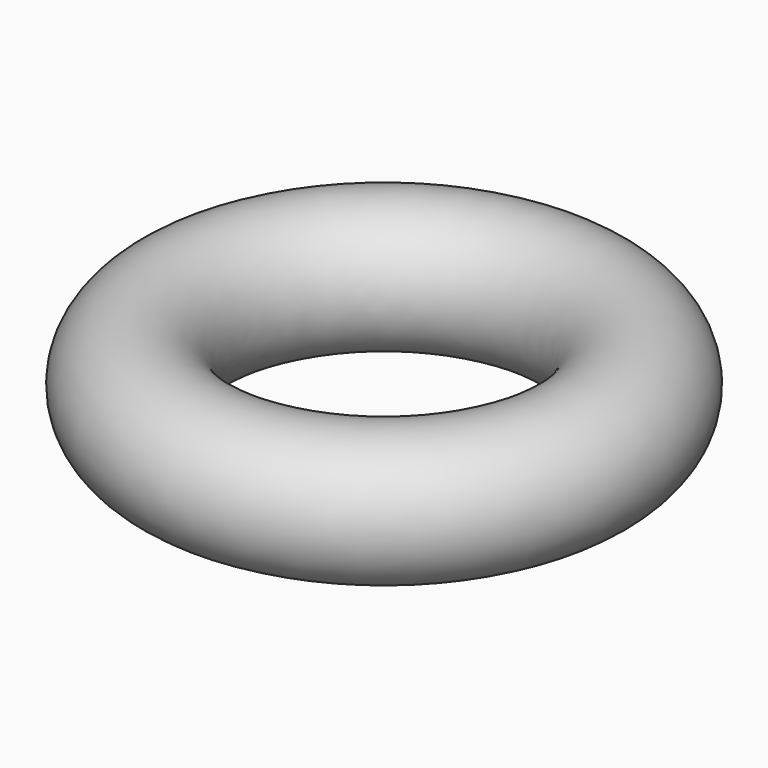
from build123d import *

# Parameters (mm, degrees)
F0_R = 25.4


with BuildPart() as f2:
    # F2: sweep along a path in F1
    with BuildLine(Plane.XY) as f2_path:
        CenterArc((-76.2, 0), 76.2, 0, 360)
    # F0 (on Front) → F2 (sweep)
    with BuildSketch(Plane.XZ):
        Circle(F0_R)
    sweep(path=f2_path.line)


solid = f2.part
